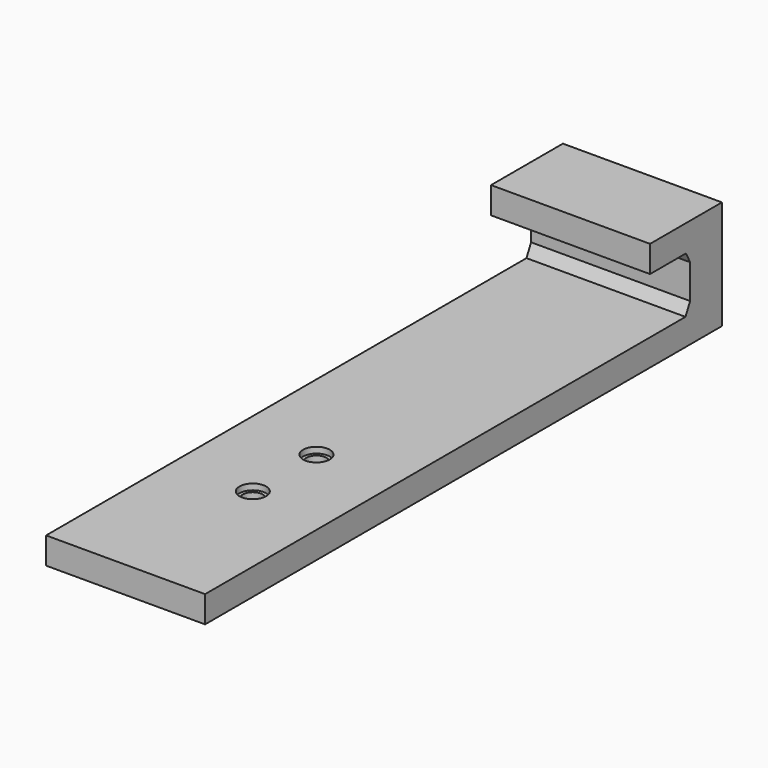
from build123d import *

# Parameters (mm, degrees)
F1_DEPTH = 25.4
F2_DEPTH = 84.1375
F3_R     = 1.5875
F4_DEPTH = 25.4
F5_R     = 2.12725
F5_R_2   = 1.5875
F6_DEPTH = 0.9525


with BuildPart() as f1:
    # F0 (on Right) → F1 (new body)
    with BuildSketch(Plane.YZ):
        Polygon((0, 4.2545), (0, 0), (19.05, 0), (19.05, 4.2545), (19.05, 17.0903187245), (19.05, 17.399), (4.699, 17.399), (4.699, 13.1445), (11.8745, 13.1445), (12.7, 11.5581387654), (12.7, 6.1031985097), (11.7745716125, 4.2545), align=None)
    extrude(amount=F1_DEPTH)

    # F2 (add): a face of the model
    f2_faces = [f1.faces().sort_by_distance(p)[0] for p in [
        (12.7, 0, 2.12725),
    ]]
    extrude(f2_faces, amount=F2_DEPTH)

    # F3 (on face) → F4 (cut)
    with BuildSketch(Plane(origin=(0, 0, 0), x_dir=(1, 0, 0), z_dir=(0, 0, -1))):
        with Locations((12.7, 58.7375)):
            Circle(F3_R)
        with Locations((12.7, 46.0375)):
            Circle(F3_R)
    extrude(amount=-F4_DEPTH, mode=Mode.SUBTRACT)

    # F5 (on face) → F6 (cut)
    with BuildSketch(Plane.XY.offset(4.2545)):
        with Locations((12.7, -46.0375)):
            Circle(F5_R)
        with Locations((12.7, -46.0375)):
            Circle(F5_R_2, mode=Mode.SUBTRACT)
        with Locations((12.7, -58.7375)):
            Circle(F5_R)
        with Locations((12.7, -58.7375)):
            Circle(F5_R_2, mode=Mode.SUBTRACT)
    extrude(amount=-F6_DEPTH, mode=Mode.SUBTRACT)


solid = f1.part
